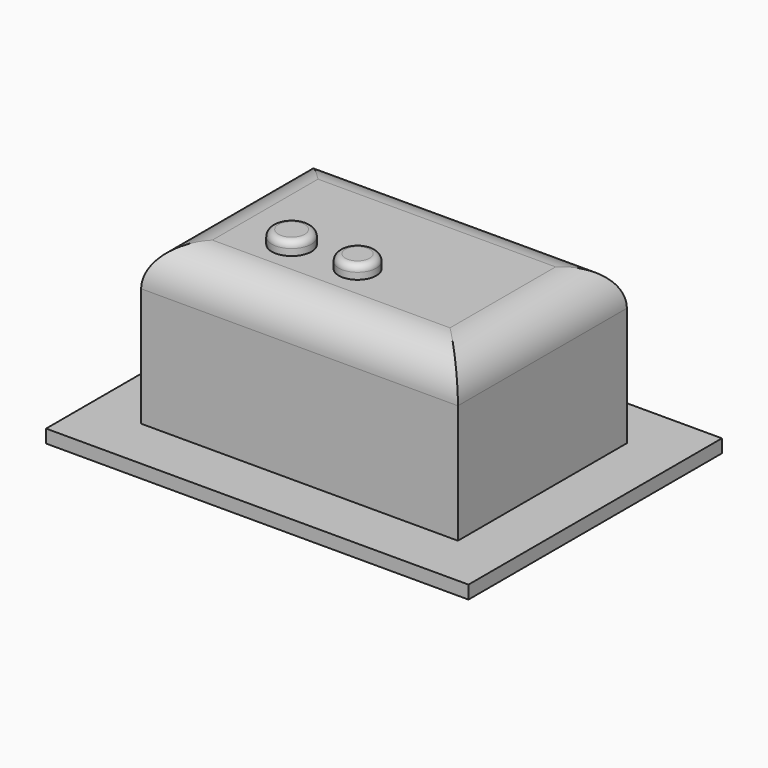
from build123d import *

# Parameters (mm, degrees)
SKETCH_W     = 16
SKETCH_H     = 12
PAD_DEPTH    = 0.5
SKETCH001_W  = 12
SKETCH001_H  = 8
PAD001_DEPTH = 6
FILLET_R     = 1.5
SKETCH002_R  = 0.75
PAD002_DEPTH = 0.5
FILLET001_R  = 0.25
SKETCH003_R  = 0.709805
PAD003_DEPTH = 0.5
FILLET002_R  = 0.25


with BuildPart() as pad:
    # Sketch → Pad (new body)
    with BuildSketch(Plane.XY):
        with Locations((8, 6)):
            Rectangle(SKETCH_W, SKETCH_H)
    extrude(amount=PAD_DEPTH)


with BuildPart() as fillet_body:
    # Sketch001 → Pad001 (new body)
    with BuildSketch(Plane.XY.offset(0.5)):
        with Locations((8, 6)):
            Rectangle(SKETCH001_W, SKETCH001_H)
    extrude(amount=PAD001_DEPTH)

    # Fillet
    fillet_edges = [fillet_body.edges().sort_by_distance(p)[0] for p in [
        (8, 2, 6.5),
        (14, 6, 6.5),
        (8, 10, 6.5),
        (2, 6, 6.5),
    ]]
    fillet(fillet_edges, radius=FILLET_R)


with BuildPart() as fillet001:
    # Sketch002 → Pad002 (new body)
    with BuildSketch(Plane.XY.offset(6.5)):
        with Locations((5.5, 4.75)):
            Circle(SKETCH002_R)
    extrude(amount=PAD002_DEPTH)

    # Fillet001
    fillet001_edges = [fillet001.edges().sort_by_distance(p)[0] for p in [
        (4.75, 4.75, 7),
    ]]
    fillet(fillet001_edges, radius=FILLET001_R)


with BuildPart() as fillet002:
    # Sketch003 → Pad003 (new body)
    with BuildSketch(Plane.XY.offset(6.5)):
        with Locations((8, 4.75)):
            Circle(SKETCH003_R)
    extrude(amount=PAD003_DEPTH)

    # Fillet002
    fillet002_edges = [fillet002.edges().sort_by_distance(p)[0] for p in [
        (7.290195, 4.75, 7),
    ]]
    fillet(fillet002_edges, radius=FILLET002_R)


solid = Compound([pad.part, fillet_body.part, fillet001.part, fillet002.part])
